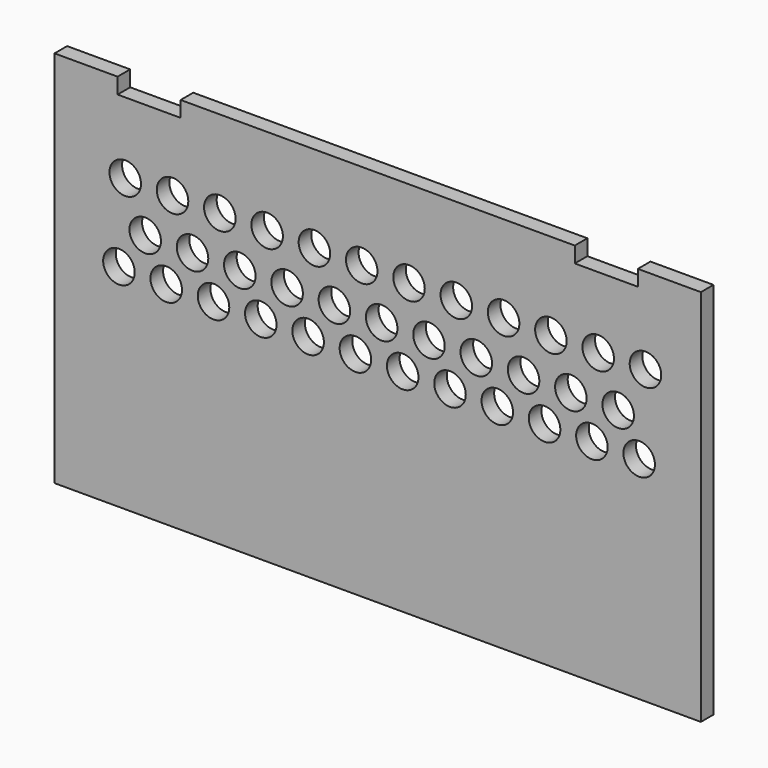
from build123d import *

# Parameters (mm, degrees)
F1_DEPTH = 1
F2_R     = 1
F3_DEPTH = 1.001
F4_R     = 1
F5_DEPTH = 1.001
F6_R     = 1
F7_DEPTH = 1.001


with BuildPart() as f1:
    # F0 (on Front) → F1 (new body)
    with BuildSketch(Plane.XZ):
        Polygon((-18.922574, 24), (-22.922574, 24), (-22.922574, 0), (18.077426, 0), (18.077426, 24), (14.077426, 24), (14.077426, 23), (10.077426, 23), (10.077426, 24), (-14.922574, 24), (-14.922574, 23), (-18.922574, 23), align=None)
    extrude(amount=F1_DEPTH)

    # F2 (on face) → F3 (cut, through all)
    with BuildSketch(Plane.XZ.offset(1)):
        with Locations((-18.436505, 18.492816)):
            Circle(F2_R)
        with Locations((-15.436505, 18.492816)):
            Circle(F2_R)
        with Locations((-12.436505, 18.492816)):
            Circle(F2_R)
        with Locations((-9.436505, 18.492816)):
            Circle(F2_R)
        with Locations((-6.436505, 18.492816)):
            Circle(F2_R)
        with Locations((-3.436505, 18.492816)):
            Circle(F2_R)
        with Locations((-0.436505, 18.492816)):
            Circle(F2_R)
        with Locations((2.563495, 18.492816)):
            Circle(F2_R)
        with Locations((5.563495, 18.492816)):
            Circle(F2_R)
        with Locations((8.563495, 18.492816)):
            Circle(F2_R)
        with Locations((11.563495, 18.492816)):
            Circle(F2_R)
        with Locations((14.563099, 18.541559)):
            Circle(F2_R)
    extrude(amount=-F3_DEPTH, mode=Mode.SUBTRACT)

    # F4 (on face) → F5 (cut, through all)
    with BuildSketch(Plane.XZ.offset(1)):
        with Locations((-17.169001, 15.706128)):
            Circle(F4_R)
        with Locations((-14.169001, 15.706128)):
            Circle(F4_R)
        with Locations((-11.169001, 15.706128)):
            Circle(F4_R)
        with Locations((-8.169001, 15.706128)):
            Circle(F4_R)
        with Locations((-5.169001, 15.706128)):
            Circle(F4_R)
        with Locations((-2.169001, 15.706128)):
            Circle(F4_R)
        with Locations((0.830999, 15.706128)):
            Circle(F4_R)
        with Locations((3.830999, 15.706128)):
            Circle(F4_R)
        with Locations((6.830999, 15.706128)):
            Circle(F4_R)
        with Locations((9.830999, 15.706128)):
            Circle(F4_R)
        with Locations((12.830999, 15.706128)):
            Circle(F4_R)
    extrude(amount=-F5_DEPTH, mode=Mode.SUBTRACT)

    # F6 (on face) → F7 (cut, through all)
    with BuildSketch(Plane.XZ.offset(1)):
        with Locations((-12.836513, 13.417575)):
            Circle(F6_R)
        with Locations((-18.836513, 13.417575)):
            Circle(F6_R)
        with Locations((-15.836513, 13.417575)):
            Circle(F6_R)
        with Locations((-9.836513, 13.417575)):
            Circle(F6_R)
        with Locations((-6.836513, 13.417575)):
            Circle(F6_R)
        with Locations((-3.836513, 13.417575)):
            Circle(F6_R)
        with Locations((-0.836513, 13.417575)):
            Circle(F6_R)
        with Locations((2.163487, 13.417575)):
            Circle(F6_R)
        with Locations((5.163487, 13.417575)):
            Circle(F6_R)
        with Locations((8.163487, 13.417575)):
            Circle(F6_R)
        with Locations((11.163487, 13.417575)):
            Circle(F6_R)
        with Locations((14.163487, 13.417575)):
            Circle(F6_R)
    extrude(amount=-F7_DEPTH, mode=Mode.SUBTRACT)


solid = f1.part
